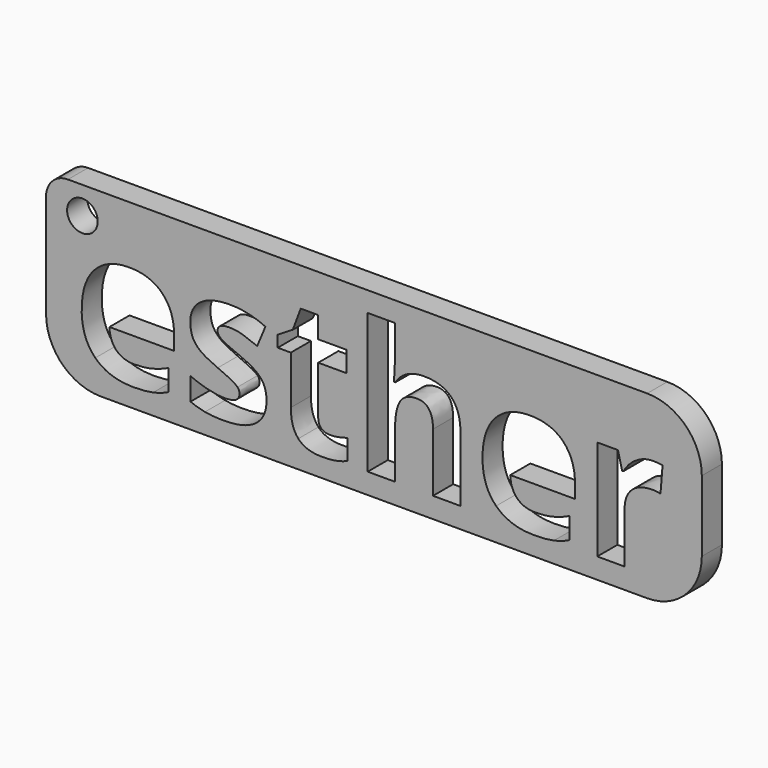
from build123d import *

# Parameters (mm, degrees)
F0_R     = 1.4
F1_DEPTH = 2.3


with BuildPart() as f1:
    # F0 (on Front) → F1 (new body)
    with BuildSketch(Plane.XZ):
        with BuildLine():
            Line((25, 10), (-28, 10))
            ThreePointArc((-28, 10), (-29.4142135624, 9.4142135624), (-30, 8))
            Line((-30, 8), (-30, -1.5))
            ThreePointArc((-30, -1.5), (-28.5355339059, -5.0355339059), (-25, -6.5))
            Line((-25, -6.5), (25, -6.5))
            ThreePointArc((25, -6.5), (28.5355339059, -5.0355339059), (30, -1.5))
            Line((30, -1.5), (30, 5))
            ThreePointArc((30, 5), (28.5355339059, 8.5355339059), (25, 10))
        make_face()
        with BuildLine():
            add(Edge.make_bspline(
                [(-20.2022568614, -4.6234579707), (-20.949124988, -4.7838768289), (-22.0273501004, -4.7838768289)],
                knots=[0, 0, 0, 1, 1, 1], degree=2))
            add(Edge.make_bspline(
                [(-22.0273501004, -4.7838768289), (-24.2442861241, -4.7838768289), (-25.4934493641, -3.5583819451)],
                knots=[0, 0, 0, 1, 1, 1], degree=2))
            add(Edge.make_bspline(
                [(-25.4934493641, -3.5583819451), (-26.742612604, -2.3328870613), (-26.742612604, -0.0896528641)],
                knots=[0, 0, 0, 1, 1, 1], degree=2))
            add(Edge.make_bspline(
                [(-26.742612604, -0.0896528641), (-26.742612604, 2.2193267668), (-25.5881227886, 3.4803241848)],
                knots=[0, 0, 0, 1, 1, 1], degree=2))
            add(Edge.make_bspline(
                [(-25.5881227886, 3.4803241848), (-24.4336329731, 4.7413216028), (-22.395524529, 4.7413216028)],
                knots=[0, 0, 0, 1, 1, 1], degree=2))
            add(Edge.make_bspline(
                [(-22.395524529, 4.7413216028), (-20.4494596921, 4.7413216028), (-19.3646600363, 3.6328535909)],
                knots=[0, 0, 0, 1, 1, 1], degree=2))
            add(Edge.make_bspline(
                [(-19.3646600363, 3.6328535909), (-18.2798603806, 2.524385579), (-18.2798603806, 0.5678014727)],
                knots=[0, 0, 0, 1, 1, 1], degree=2))
            Line((-18.2798603806, 0.5678014727), (-18.2798603806, -0.6498039591))
            Line((-18.2798603806, -0.6498039591), (-24.2048388639, -0.6498039591))
            add(Edge.make_bspline(
                [(-24.2048388639, -0.6498039591), (-24.1627617864, -1.717509802), (-23.5710528832, -2.3171081572)],
                knots=[0, 0, 0, 1, 1, 1], degree=2))
            add(Edge.make_bspline(
                [(-23.5710528832, -2.3171081572), (-22.9793439801, -2.9167065124), (-21.9116381371, -2.9167065124)],
                knots=[0, 0, 0, 1, 1, 1], degree=2))
            add(Edge.make_bspline(
                [(-21.9116381371, -2.9167065124), (-21.0806158554, -2.9167065124), (-20.3416371808, -2.7444534761)],
                knots=[0, 0, 0, 1, 1, 1], degree=2))
            add(Edge.make_bspline(
                [(-20.3416371808, -2.7444534761), (-19.6026585063, -2.5722004399), (-18.797934398, -2.1935067419)],
                knots=[0, 0, 0, 1, 1, 1], degree=2))
            Line((-18.797934398, -2.1935067419), (-18.797934398, -4.1343119442))
            add(Edge.make_bspline(
                [(-18.797934398, -4.1343119442), (-19.4553887348, -4.4630391126), (-20.2022568614, -4.6234579707)],
                knots=[0, 0, 0, 1, 1, 1], degree=2))
        make_face(mode=Mode.SUBTRACT)
        with BuildLine():
            add(Edge.make_bspline(
                [(-10.0695706225, -0.7142344841), (-9.830257244, -1.2073252367), (-9.830257244, -1.8884479296)],
                knots=[0, 0, 0, 1, 1, 1], degree=2))
            add(Edge.make_bspline(
                [(-9.830257244, -1.8884479296), (-9.830257244, -3.3032896624), (-10.8124940231, -4.0435832457)],
                knots=[0, 0, 0, 1, 1, 1], degree=2))
            add(Edge.make_bspline(
                [(-10.8124940231, -4.0435832457), (-11.7947308023, -4.7838768289), (-13.7513149087, -4.7838768289)],
                knots=[0, 0, 0, 1, 1, 1], degree=2))
            add(Edge.make_bspline(
                [(-13.7513149087, -4.7838768289), (-14.753275318, -4.7838768289), (-15.4606961844, -4.6471263269)],
                knots=[0, 0, 0, 1, 1, 1], degree=2))
            add(Edge.make_bspline(
                [(-15.4606961844, -4.6471263269), (-16.1681170508, -4.5103758248), (-16.78349431, -4.2473940901)],
                knots=[0, 0, 0, 1, 1, 1], degree=2))
            Line((-16.78349431, -4.2473940901), (-16.78349431, -2.1777278378))
            add(Edge.make_bspline(
                [(-16.78349431, -2.1777278378), (-16.086592713, -2.5064550062), (-15.2108635364, -2.7286745721)],
                knots=[0, 0, 0, 1, 1, 1], degree=2))
            add(Edge.make_bspline(
                [(-15.2108635364, -2.7286745721), (-14.3351343598, -2.9508941379), (-13.6697905709, -2.9508941379)],
                knots=[0, 0, 0, 1, 1, 1], degree=2))
            add(Edge.make_bspline(
                [(-13.6697905709, -2.9508941379), (-12.3049153677, -2.9508941379), (-12.3049153677, -2.1619489337)],
                knots=[0, 0, 0, 1, 1, 1], degree=2))
            add(Edge.make_bspline(
                [(-12.3049153677, -2.1619489337), (-12.3049153677, -1.8647795735), (-12.4863727647, -1.6793774505)],
                knots=[0, 0, 0, 1, 1, 1], degree=2))
            add(Edge.make_bspline(
                [(-12.4863727647, -1.6793774505), (-12.6678301616, -1.4939753275), (-13.1109543846, -1.2599215836)],
                knots=[0, 0, 0, 1, 1, 1], degree=2))
            add(Edge.make_bspline(
                [(-13.1109543846, -1.2599215836), (-13.5540786076, -1.0258678397), (-14.2930572822, -0.7155493928)],
                knots=[0, 0, 0, 1, 1, 1], degree=2))
            add(Edge.make_bspline(
                [(-14.2930572822, -0.7155493928), (-15.3528736731, -0.2711102611), (-15.8512240604, 0.1075834369)],
                knots=[0, 0, 0, 1, 1, 1], degree=2))
            add(Edge.make_bspline(
                [(-15.8512240604, 0.1075834369), (-16.3495744477, 0.4862771349), (-16.5744238309, 0.9754231615)],
                knots=[0, 0, 0, 1, 1, 1], degree=2))
            add(Edge.make_bspline(
                [(-16.5744238309, 0.9754231615), (-16.7992732141, 1.4645691881), (-16.7992732141, 2.1772496892)],
                knots=[0, 0, 0, 1, 1, 1], degree=2))
            add(Edge.make_bspline(
                [(-16.7992732141, 2.1772496892), (-16.7992732141, 3.402744573), (-15.8512240604, 4.0720330879)],
                knots=[0, 0, 0, 1, 1, 1], degree=2))
            add(Edge.make_bspline(
                [(-15.8512240604, 4.0720330879), (-14.9031749068, 4.7413216028), (-13.1596060055, 4.7413216028)],
                knots=[0, 0, 0, 1, 1, 1], degree=2))
            add(Edge.make_bspline(
                [(-13.1596060055, 4.7413216028), (-11.5001912594, 4.7413216028), (-9.9301903031, 4.0181218323)],
                knots=[0, 0, 0, 1, 1, 1], degree=2))
            Line((-9.9301903031, 4.0181218323), (-10.6849478818, 2.2114373147))
            add(Edge.make_bspline(
                [(-10.6849478818, 2.2114373147), (-11.3765898441, 2.5059768576), (-11.9761881993, 2.6953237066)],
                knots=[0, 0, 0, 1, 1, 1], degree=2))
            add(Edge.make_bspline(
                [(-11.9761881993, 2.6953237066), (-12.5757865545, 2.8846705556), (-13.2016830831, 2.8846705556)],
                knots=[0, 0, 0, 1, 1, 1], degree=2))
            add(Edge.make_bspline(
                [(-13.2016830831, 2.8846705556), (-14.3114660036, 2.8846705556), (-14.3114660036, 2.2850722004)],
                knots=[0, 0, 0, 1, 1, 1], degree=2))
            add(Edge.make_bspline(
                [(-14.3114660036, 2.2850722004), (-14.3114660036, 1.94845558), (-13.9538108444, 1.7012527494)],
                knots=[0, 0, 0, 1, 1, 1], degree=2))
            add(Edge.make_bspline(
                [(-13.9538108444, 1.7012527494), (-13.5961556852, 1.4540499187), (-12.3864397055, 0.9701635268)],
                knots=[0, 0, 0, 1, 1, 1], degree=2))
            add(Edge.make_bspline(
                [(-12.3864397055, 0.9701635268), (-11.3108444104, 0.5336138472), (-10.8098642058, 0.1562350579)],
                knots=[0, 0, 0, 1, 1, 1], degree=2))
            add(Edge.make_bspline(
                [(-10.8098642058, 0.1562350579), (-10.3088840011, -0.2211437315), (-10.0695706225, -0.7142344841)],
                knots=[0, 0, 0, 1, 1, 1], degree=2))
        make_face(mode=Mode.SUBTRACT)
        with BuildLine():
            add(Edge.make_bspline(
                [(-4.7994166587, -2.5301233623), (-4.4996174811, -2.785215645), (-4.0052118198, -2.785215645)],
                knots=[0, 0, 0, 1, 1, 1], degree=2))
            add(Edge.make_bspline(
                [(-4.0052118198, -2.785215645), (-3.347757483, -2.785215645), (-2.4273214115, -2.4985655542)],
                knots=[0, 0, 0, 1, 1, 1], degree=2))
            Line((-2.4273214115, -2.4985655542), (-2.4273214115, -4.3631060534))
            add(Edge.make_bspline(
                [(-2.4273214115, -4.3631060534), (-3.3635363871, -4.7838768289), (-4.7284115903, -4.7838768289)],
                knots=[0, 0, 0, 1, 1, 1], degree=2))
            add(Edge.make_bspline(
                [(-4.7284115903, -4.7838768289), (-6.2326671129, -4.7838768289), (-6.9190494406, -4.0225447069)],
                knots=[0, 0, 0, 1, 1, 1], degree=2))
            add(Edge.make_bspline(
                [(-6.9190494406, -4.0225447069), (-7.6054317682, -3.2612125849), (-7.6054317682, -1.7411781582)],
                knots=[0, 0, 0, 1, 1, 1], degree=2))
            Line((-7.6054317682, -1.7411781582), (-7.6054317682, 2.6874342546))
            Line((-7.6054317682, 2.6874342546), (-8.8046284785, 2.6874342546))
            Line((-8.8046284785, 2.6874342546), (-8.8046284785, 3.7472506455))
            Line((-8.8046284785, 3.7472506455), (-7.4239743712, 4.5861623793))
            Line((-7.4239743712, 4.5861623793), (-6.7007746007, 6.5269675815))
            Line((-6.7007746007, 6.5269675815), (-5.0992158363, 6.5269675815))
            Line((-5.0992158363, 6.5269675815), (-5.0992158363, 4.5703834752))
            Line((-5.0992158363, 4.5703834752), (-2.5272544707, 4.5703834752))
            Line((-2.5272544707, 4.5703834752), (-2.5272544707, 2.6874342546))
            Line((-2.5272544707, 2.6874342546), (-5.0992158363, 2.6874342546))
            Line((-5.0992158363, 2.6874342546), (-5.0992158363, -1.7411781582))
            add(Edge.make_bspline(
                [(-5.0992158363, -1.7411781582), (-5.0992158363, -2.2750310797), (-4.7994166587, -2.5301233623)],
                knots=[0, 0, 0, 1, 1, 1], degree=2))
        make_face(mode=Mode.SUBTRACT)
        with BuildLine():
            add(Edge.make_bspline(
                [(16.4731758631, -4.6234579707), (15.7263077364, -4.7838768289), (14.6480826241, -4.7838768289)],
                knots=[0, 0, 0, 1, 1, 1], degree=2))
            add(Edge.make_bspline(
                [(14.6480826241, -4.7838768289), (12.4311466004, -4.7838768289), (11.1819833604, -3.5583819451)],
                knots=[0, 0, 0, 1, 1, 1], degree=2))
            add(Edge.make_bspline(
                [(11.1819833604, -3.5583819451), (9.9328201205, -2.3328870613), (9.9328201205, -0.0896528641)],
                knots=[0, 0, 0, 1, 1, 1], degree=2))
            add(Edge.make_bspline(
                [(9.9328201205, -0.0896528641), (9.9328201205, 2.2193267668), (11.0873099359, 3.4803241848)],
                knots=[0, 0, 0, 1, 1, 1], degree=2))
            add(Edge.make_bspline(
                [(11.0873099359, 3.4803241848), (12.2417997514, 4.7413216028), (14.2799081955, 4.7413216028)],
                knots=[0, 0, 0, 1, 1, 1], degree=2))
            add(Edge.make_bspline(
                [(14.2799081955, 4.7413216028), (16.2259730324, 4.7413216028), (17.3107726882, 3.6328535909)],
                knots=[0, 0, 0, 1, 1, 1], degree=2))
            add(Edge.make_bspline(
                [(17.3107726882, 3.6328535909), (18.3955723439, 2.524385579), (18.3955723439, 0.5678014727)],
                knots=[0, 0, 0, 1, 1, 1], degree=2))
            Line((18.3955723439, 0.5678014727), (18.3955723439, -0.6498039591))
            Line((18.3955723439, -0.6498039591), (12.4705938606, -0.6498039591))
            add(Edge.make_bspline(
                [(12.4705938606, -0.6498039591), (12.5126709381, -1.717509802), (13.1043798413, -2.3171081572)],
                knots=[0, 0, 0, 1, 1, 1], degree=2))
            add(Edge.make_bspline(
                [(13.1043798413, -2.3171081572), (13.6960887444, -2.9167065124), (14.7637945874, -2.9167065124)],
                knots=[0, 0, 0, 1, 1, 1], degree=2))
            add(Edge.make_bspline(
                [(14.7637945874, -2.9167065124), (15.5948168691, -2.9167065124), (16.3337955437, -2.7444534761)],
                knots=[0, 0, 0, 1, 1, 1], degree=2))
            add(Edge.make_bspline(
                [(16.3337955437, -2.7444534761), (17.0727742182, -2.5722004399), (17.8774983265, -2.1935067419)],
                knots=[0, 0, 0, 1, 1, 1], degree=2))
            Line((17.8774983265, -2.1935067419), (17.8774983265, -4.1343119442))
            add(Edge.make_bspline(
                [(17.8774983265, -4.1343119442), (17.2200439897, -4.4630391126), (16.4731758631, -4.6234579707)],
                knots=[0, 0, 0, 1, 1, 1], degree=2))
        make_face(mode=Mode.SUBTRACT)
        with BuildLine():
            add(Edge.make_bspline(
                [(23.9799894807, 4.2692693889), (24.7071339772, 4.7413216028), (25.5618246151, 4.7413216028)],
                knots=[0, 0, 0, 1, 1, 1], degree=2))
            add(Edge.make_bspline(
                [(25.5618246151, 4.7413216028), (26.0720091805, 4.7413216028), (26.4086258009, 4.667686717)],
                knots=[0, 0, 0, 1, 1, 1], degree=2))
            Line((26.4086258009, 4.667686717), (26.2192789519, 2.319259826))
            add(Edge.make_bspline(
                [(26.2192789519, 2.319259826), (25.9142201396, 2.4007841637), (25.4803002773, 2.4007841637)],
                knots=[0, 0, 0, 1, 1, 1], degree=2))
            add(Edge.make_bspline(
                [(25.4803002773, 2.4007841637), (24.281103567, 2.4007841637), (23.6105001434, 1.7840919958)],
                knots=[0, 0, 0, 1, 1, 1], degree=2))
            add(Edge.make_bspline(
                [(23.6105001434, 1.7840919958), (22.9398967199, 1.1673998279), (22.9398967199, 0.0576169073)],
                knots=[0, 0, 0, 1, 1, 1], degree=2))
            Line((22.9398967199, 0.0576169073), (22.9398967199, -4.618198336))
            Line((22.9398967199, -4.618198336), (20.433680788, -4.618198336))
            Line((20.433680788, -4.618198336), (20.433680788, 4.5703834752))
            Line((20.433680788, 4.5703834752), (22.3324089127, 4.5703834752))
            Line((22.3324089127, 4.5703834752), (22.7032131586, 3.024050875))
            Line((22.7032131586, 3.024050875), (22.8241847566, 3.024050875))
            add(Edge.make_bspline(
                [(22.8241847566, 3.024050875), (23.2528449842, 3.7972171751), (23.9799894807, 4.2692693889)],
                knots=[0, 0, 0, 1, 1, 1], degree=2))
        make_face(mode=Mode.SUBTRACT)
        with Locations((-26.675324887, 7.5)):
            Circle(F0_R, mode=Mode.SUBTRACT)
        with BuildLine():
            Line((7.9104905805, 1.372525581), (7.9104905805, -4.618198336))
            Line((7.9104905805, -4.618198336), (5.4042746486, -4.618198336))
            Line((5.4042746486, -4.618198336), (5.4042746486, 0.7492588697))
            add(Edge.make_bspline(
                [(5.4042746486, 0.7492588697), (5.4042746486, 2.7374007842), (3.9236874821, 2.7374007842)],
                knots=[0, 0, 0, 1, 1, 1], degree=2))
            add(Edge.make_bspline(
                [(3.9236874821, 2.7374007842), (2.8717605432, 2.7374007842), (2.4036530554, 2.0220904657)],
                knots=[0, 0, 0, 1, 1, 1], degree=2))
            add(Edge.make_bspline(
                [(2.4036530554, 2.0220904657), (1.9355455676, 1.3067801473), (1.9355455676, -0.2947786172)],
                knots=[0, 0, 0, 1, 1, 1], degree=2))
            Line((1.9355455676, -0.2947786172), (1.9355455676, -4.618198336))
            Line((1.9355455676, -4.618198336), (-0.5706703643, -4.618198336))
            Line((-0.5706703643, -4.618198336), (-0.5706703643, 8.1706034235))
            Line((-0.5706703643, 8.1706034235), (1.9355455676, 8.1706034235))
            Line((1.9355455676, 8.1706034235), (1.9355455676, 5.5644544324))
            add(Edge.make_bspline(
                [(1.9355455676, 5.5644544324), (1.9355455676, 5.2593956202), (1.8776895859, 4.1338337955)],
                knots=[0, 0, 0, 1, 1, 1], degree=2))
            Line((1.8776895859, 4.1338337955), (1.8198336043, 3.394855121))
            Line((1.8198336043, 3.394855121), (1.9513244716, 3.394855121))
            add(Edge.make_bspline(
                [(1.9513244716, 3.394855121), (2.7902362054, 4.7413216028), (4.6153294444, 4.7413216028)],
                knots=[0, 0, 0, 1, 1, 1], degree=2))
            add(Edge.make_bspline(
                [(4.6153294444, 4.7413216028), (6.2352969303, 4.7413216028), (7.0728937554, 3.8708520608)],
                knots=[0, 0, 0, 1, 1, 1], degree=2))
            add(Edge.make_bspline(
                [(7.0728937554, 3.8708520608), (7.9104905805, 3.0003825189), (7.9104905805, 1.372525581)],
                knots=[0, 0, 0, 1, 1, 1], degree=2))
        make_face(mode=Mode.SUBTRACT)
    extrude(amount=F1_DEPTH)


solid = f1.part
